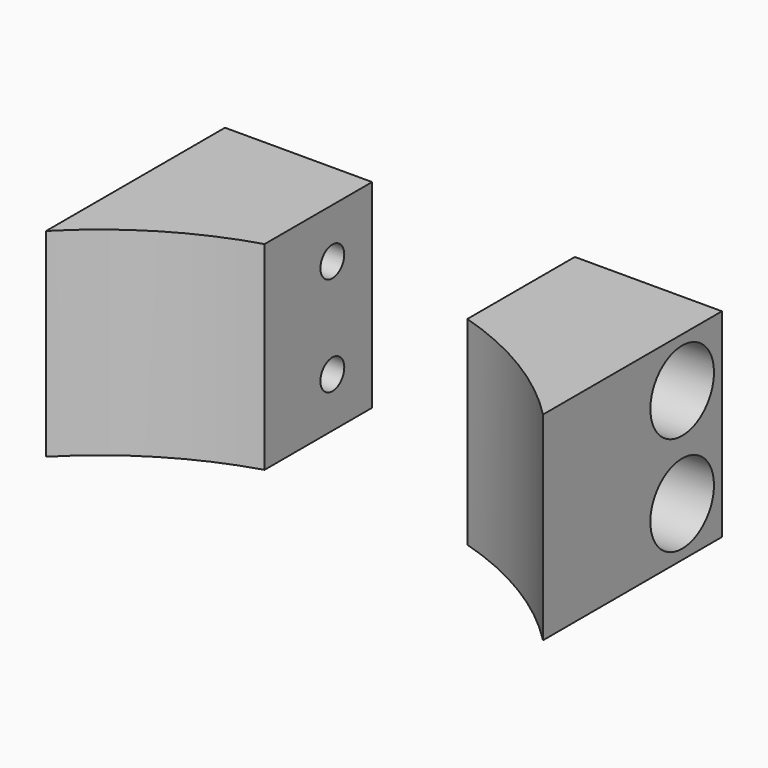
from build123d import *

# Parameters (mm, degrees)
CYLINDER158_R      = 1.5
CYLINDER158_DEPTH  = 20
CYLINDER1818_R     = 1.5
CYLINDER1818_DEPTH = 20
CYLINDER1819_R     = 1.5
CYLINDER1819_DEPTH = 20
CYLINDER156_R      = 1.5
CYLINDER156_DEPTH  = 20
CYLINDER159_R      = 4
CYLINDER159_DEPTH  = 20
CYLINDER1816_R     = 4
CYLINDER1816_DEPTH = 20
CYLINDER1817_R     = 4
CYLINDER1817_DEPTH = 20
CYLINDER157_R      = 4
CYLINDER157_DEPTH  = 20
BOX067_W           = 20.4
BOX067_H           = 27
BOX067_DEPTH       = 20
CYLINDER155_R      = 35
CYLINDER155_DEPTH  = 20
BOX066_W           = 50
BOX066_H           = 32
BOX066_DEPTH       = 20


with BuildPart() as obj1:
    # Cylinder158 → Cylinder158 (new body)
    with BuildSketch(Plane(origin=(-24, 38, 25), x_dir=(0, 0, -1), z_dir=(1, 0, 0))):
        Circle(CYLINDER158_R)
    extrude(amount=CYLINDER158_DEPTH)


with BuildPart() as obj2:
    # Cylinder1818 → Cylinder1818 (new body)
    with BuildSketch(Plane(origin=(4, 38, 15), x_dir=(0, 0, -1), z_dir=(1, 0, 0))):
        Circle(CYLINDER1818_R)
    extrude(amount=CYLINDER1818_DEPTH)


with BuildPart() as obj3:
    # Cylinder1819 → Cylinder1819 (new body)
    with BuildSketch(Plane(origin=(-24, 38, 15), x_dir=(0, 0, -1), z_dir=(1, 0, 0))):
        Circle(CYLINDER1819_R)
    extrude(amount=CYLINDER1819_DEPTH)


with BuildPart() as compound050:
    # Cylinder156 → Cylinder156 (new body)
    with BuildSketch(Plane(origin=(4, 38, 25), x_dir=(0, 0, -1), z_dir=(1, 0, 0))):
        Circle(CYLINDER156_R)
    extrude(amount=CYLINDER156_DEPTH)

    # Compound050: union obj1, obj2, obj3
    add(obj1.part)
    add(obj2.part)
    add(obj3.part)


with BuildPart() as compound050_1:
    # Compound050 placement: moved
    add(compound050.part.moved(Location((0, 4, 0))))


with BuildPart() as obj4:
    # Cylinder159 → Cylinder159 (new body)
    with BuildSketch(Plane(origin=(-38, 38, 25), x_dir=(0, 0, -1), z_dir=(1, 0, 0))):
        Circle(CYLINDER159_R)
    extrude(amount=CYLINDER159_DEPTH)


with BuildPart() as obj5:
    # Cylinder1816 → Cylinder1816 (new body)
    with BuildSketch(Plane(origin=(18, 38, 15), x_dir=(0, 0, -1), z_dir=(1, 0, 0))):
        Circle(CYLINDER1816_R)
    extrude(amount=CYLINDER1816_DEPTH)


with BuildPart() as obj6:
    # Cylinder1817 → Cylinder1817 (new body)
    with BuildSketch(Plane(origin=(-38, 38, 15), x_dir=(0, 0, -1), z_dir=(1, 0, 0))):
        Circle(CYLINDER1817_R)
    extrude(amount=CYLINDER1817_DEPTH)


with BuildPart() as compound049:
    # Cylinder157 → Cylinder157 (new body)
    with BuildSketch(Plane(origin=(18, 38, 25), x_dir=(0, 0, -1), z_dir=(1, 0, 0))):
        Circle(CYLINDER157_R)
    extrude(amount=CYLINDER157_DEPTH)

    # Compound049: union obj4, obj5, obj6
    add(obj4.part)
    add(obj5.part)
    add(obj6.part)


with BuildPart() as compound049_1:
    # Compound049 placement: moved
    add(compound049.part.moved(Location((0, 4, 0))))


with BuildPart() as krychle067:
    # Box067 → Box067 (new body)
    with BuildSketch(Plane(origin=(-10.2, 20, 10), x_dir=(1, 0, 0), z_dir=(0, 0, 1))):
        with Locations((10.2, 13.5)):
            Rectangle(BOX067_W, BOX067_H)
    extrude(amount=BOX067_DEPTH)


with BuildPart() as obj7:
    # Cylinder155 → Cylinder155 (new body)
    with BuildSketch(Plane.XY.offset(10)):
        Circle(CYLINDER155_R)
    extrude(amount=CYLINDER155_DEPTH)


with BuildPart() as cut059:
    # Box066 → Box066 (new body)
    with BuildSketch(Plane(origin=(-25, 15, 10), x_dir=(1, 0, 0), z_dir=(0, 0, 1))):
        with Locations((25, 16)):
            Rectangle(BOX066_W, BOX066_H)
    extrude(amount=BOX066_DEPTH)

    # Cut056: cut obj7
    add(obj7.part, mode=Mode.SUBTRACT)

    # Cut057: cut Krychle067
    add(krychle067.part, mode=Mode.SUBTRACT)

    # Cut058: cut Compound049
    add(compound049_1.part, mode=Mode.SUBTRACT)

    # Cut059: cut Compound050
    add(compound050_1.part, mode=Mode.SUBTRACT)


solid = cut059.part
